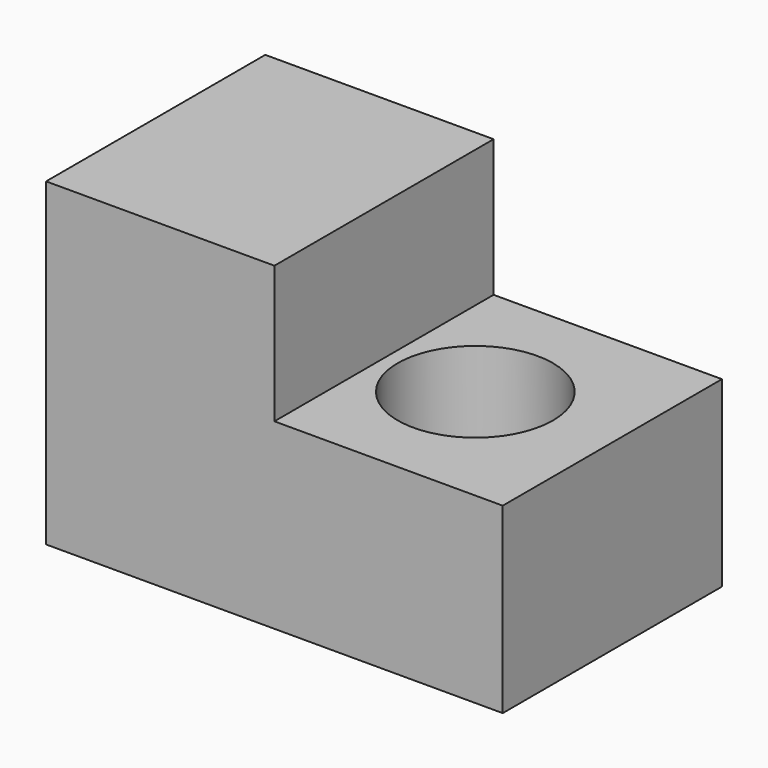
from build123d import *

# Parameters (mm, degrees)
F1_DEPTH = 762
F2_R     = 215.9
F3_DEPTH = 508


with BuildPart() as f1:
    # F0 (on Front) → F1 (new body)
    with BuildSketch(Plane.XZ):
        Polygon((-635, 889), (-635, 0), (635, 0), (635, 508), (0, 508), (0, 889), align=None)
    extrude(amount=F1_DEPTH)

    # F2 (on face) → F3 (cut, through all)
    with BuildSketch(Plane.XY.offset(508)):
        with Locations((254, -381)):
            Circle(F2_R)
    extrude(amount=-F3_DEPTH, mode=Mode.SUBTRACT)


solid = f1.part
